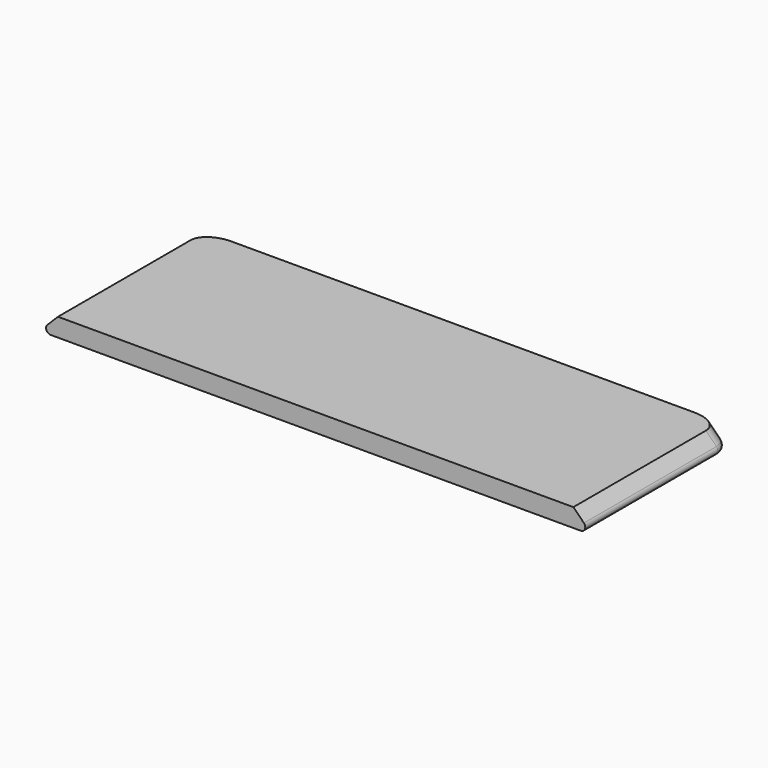
from build123d import *

# Parameters (mm, degrees)
EXTRUDE005_DEPTH = 20
FILLET022_R      = 2
FILLET023_R      = 0.5


with BuildPart() as part:
    # Sketch007 → Extrude005 (new body)
    with BuildSketch(Plane.XZ):
        Polygon((10.846248, 101.514289), (8.846248, 99.514289), (68.846248, 99.514289), (66.846248, 101.514289), align=None)
    extrude(amount=EXTRUDE005_DEPTH)


with BuildPart() as part_1:
    # Extrude005 placement: moved
    add(part.part.moved(Location((0.5, -6.5, -11.5))))

    # Fillet022
    fillet022_edges = [part_1.edges().sort_by_distance(p)[0] for p in [
        (10.346248, -6.5, 89.014289),
        (68.346248, -6.5, 89.014289),
    ]]
    fillet(fillet022_edges, radius=FILLET022_R)

    # Fillet023
    fillet023_edges = [part_1.edges().sort_by_distance(p)[0] for p in [
        (9.346248, -17.5, 88.014289),
        (69.346248, -17.5, 88.014289),
    ]]
    fillet(fillet023_edges, radius=FILLET023_R)


with BuildPart() as part_2:
    # Fillet023 placement: moved
    add(part_1.part.moved(Location((-0.5, -0.5, -0.25))))


solid = part_2.part
